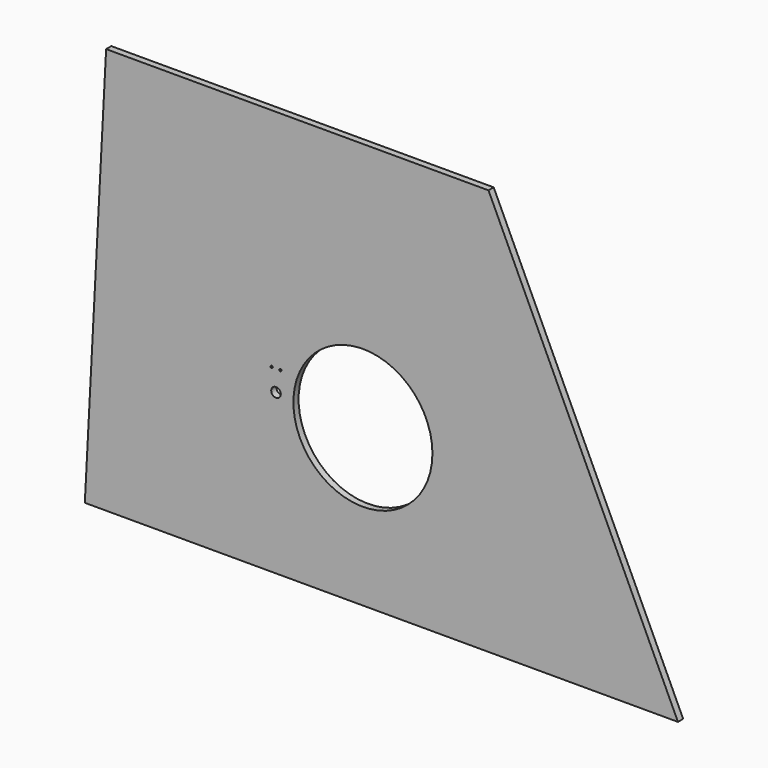
from build123d import *

# Parameters (mm, degrees)
F0_R     = 6.985
F0_R_2   = 1.651
F0_R_3   = 101.6
F1_DEPTH = 9.525


with BuildPart() as f1:
    # F0 (on Front) → F1 (new body)
    with BuildSketch(Plane.XZ):
        Polygon((-487.794698, 305.207996), (-518.917162, -288.644004), (347.923038, -288.644004), (71.005302, 305.207996), align=None)
        with Locations((-239.517162, -55.726004)):
            Circle(F0_R, mode=Mode.SUBTRACT)
        with Locations((-245.867162, -24.992004)):
            Circle(F0_R_2, mode=Mode.SUBTRACT)
        with Locations((-233.167162, -24.992004)):
            Circle(F0_R_2, mode=Mode.SUBTRACT)
        with Locations((-112.517162, -60.044004)):
            Circle(F0_R_3, mode=Mode.SUBTRACT)
    extrude(amount=F1_DEPTH)


solid = f1.part
